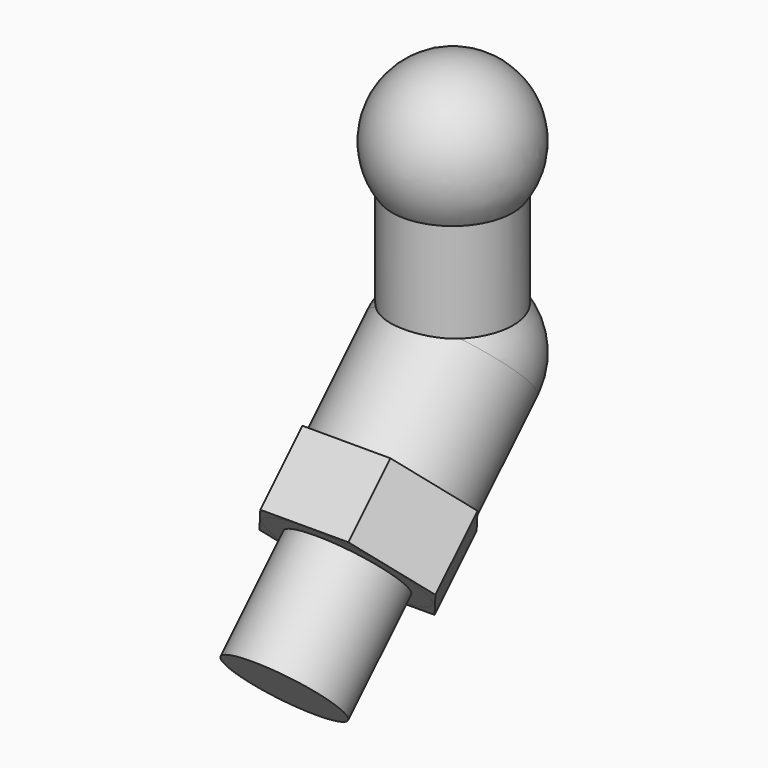
from build123d import *

# Parameters (mm, degrees)
SKETCH_R     = 3.25
PAD_DEPTH    = 10
SKETCH001_R  = 4
PAD001_DEPTH = 10
SKETCH002_R  = 3
PAD002_DEPTH = 6
PAD003_DEPTH = 4


with BuildPart() as part:
    # Sketch → Pad (new body)
    with BuildSketch(Plane.XY):
        Circle(SKETCH_R)
    extrude(amount=PAD_DEPTH)

    # Sketch001 → Pad001 (join)
    with BuildSketch(Plane(origin=(0, 0, 0), x_dir=(1, 0, 0), z_dir=(0, -0.707107, -0.707107))):
        Circle(SKETCH001_R)
    extrude(amount=PAD001_DEPTH)

    # Sphere → Sphere (revolve)
    with BuildSketch(Plane.XZ):
        with BuildLine():
            ThreePointArc((0, -4), (4, 0), (0, 4))
            Line((0, 4), (0, -4))
        make_face()
    revolve(axis=Axis((0, 0, 0), (0, 0, 1)))

    # Sphere001 → Sphere001 (revolve)
    with BuildSketch(Plane(origin=(0, 0, 10), x_dir=(1, 0, 0), z_dir=(0, 0, -1))):
        with BuildLine():
            ThreePointArc((0, -4), (4, 0), (0, 4))
            Line((0, 4), (0, -4))
        make_face()
    revolve(axis=Axis((0, 0, 10), (0, -1, 0)))

    # Sketch002 (on Face6 of Sphere001) → Pad002 (join)
    with BuildSketch(Plane(origin=(0, -12.071068, -2.071068), x_dir=(1, 0, 0), z_dir=(0, -0.707107, -0.707107))):
        with Locations((0, -7.071068)):
            Circle(SKETCH002_R)
    extrude(amount=PAD002_DEPTH)

    # Sketch003 (on Face6 of Pad002) → Pad003 (join)
    with BuildSketch(Plane(origin=(0, -12.071068, -2.071068), x_dir=(1, 0, 0), z_dir=(0, -0.707107, -0.707107))):
        Polygon((2.367136, -2.971068), (-2.367136, -2.971068), (-4.734272, -7.071068), (-2.367136, -11.171068), (2.367136, -11.171068), (4.734272, -7.071068), align=None)
    extrude(amount=-PAD003_DEPTH)


solid = part.part
